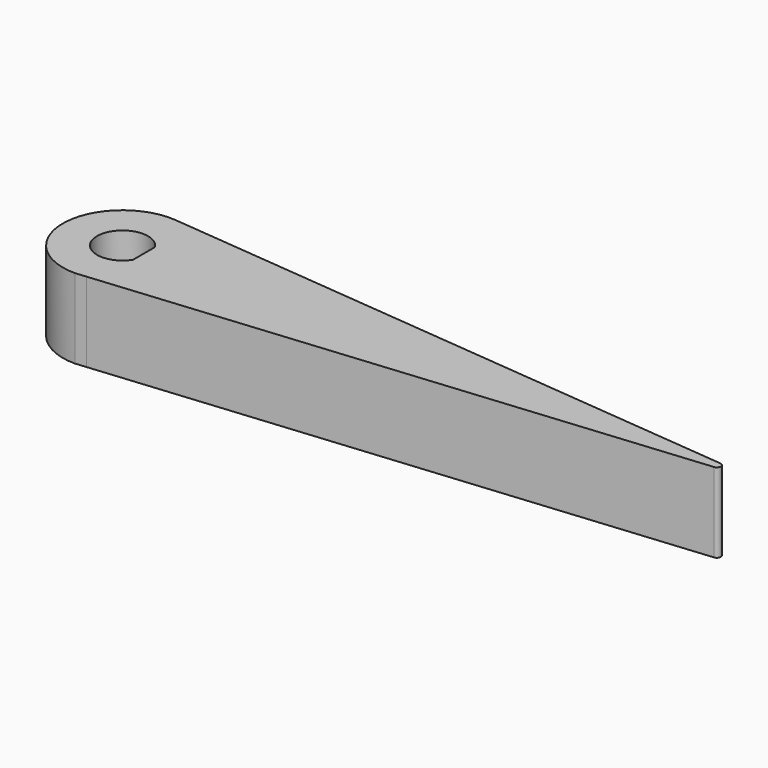
from build123d import *

# Parameters (mm, degrees)
F1_DEPTH = 10
F2_R     = 0.5


with BuildPart() as f1:
    # F0 (on Top) → F1 (new body)
    with BuildSketch(Plane.XY):
        with BuildLine():
            ThreePointArc((1.3939980639, -7.3693126815), (5.7751617068, -4.7851339856), (7.5, 0))
            ThreePointArc((7.5, 0), (5.5463248947, 5.048591899), (0.7031252901, 7.4669682487))
            ThreePointArc((0.7031252901, 7.4669682487), (-7.4917375109, 0.3519503765), (0, -7.5))
            Line((0, -7.5), (1.3939980639, -7.3693126815))
        make_face()
        with BuildLine():
            ThreePointArc((2.7, -1.7175564037), (-3.2, 0), (2.7, 1.7175564037))
            Line((2.7, 1.7175564037), (2.7, 0))
            Line((2.7, 0), (2.7, -1.7175564037))
        make_face(mode=Mode.SUBTRACT)
        with BuildLine():
            ThreePointArc((0.7031252901, 7.4669682487), (5.5463248947, 5.048591899), (7.5, 0))
            Line((7.5, 0), (80, 0))
            Line((80, 0), (0.7031252901, 7.4669682487))
        make_face()
        with BuildLine():
            Line((80, 0), (7.5, 0))
            ThreePointArc((7.5, 0), (5.7751617068, -4.7851339856), (1.3939980639, -7.3693126815))
            Line((1.3939980639, -7.3693126815), (80, 0))
        make_face()
    extrude(amount=F1_DEPTH)

    # F2
    f2_edges = [f1.edges().sort_by_distance(p)[0] for p in [
        (80, 0, 5),
    ]]
    fillet(f2_edges, radius=F2_R)


solid = f1.part
